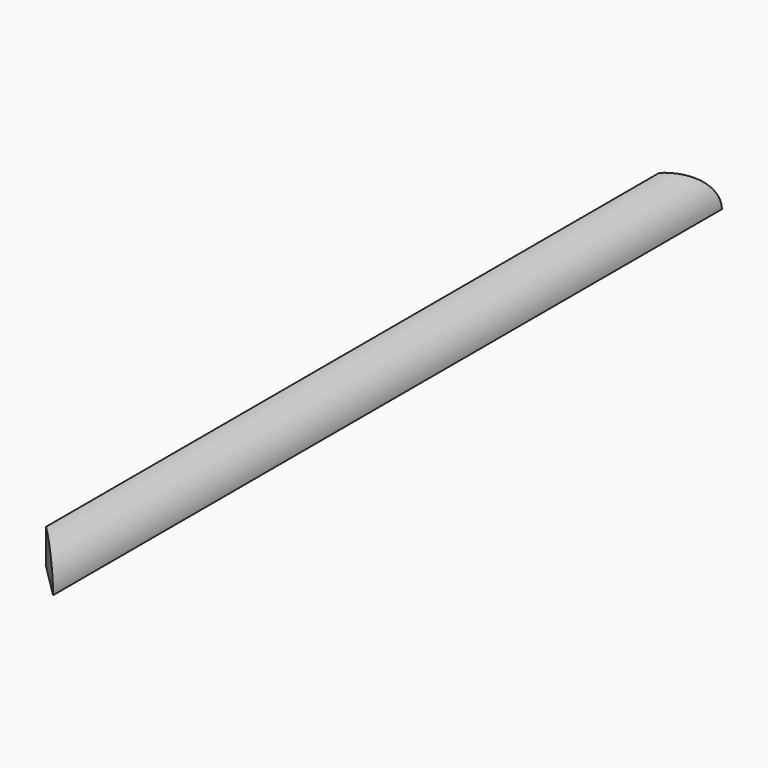
from build123d import *

# Parameters (mm, degrees)
F1_DEPTH = 457.2
F3_DEPTH = 25.4


with BuildPart() as f1:
    # F0 (on Front) → F1 (new body)
    with BuildSketch(Plane.XZ):
        with BuildLine():
            Line((0, 19.05), (0, 0))
            Line((0, 0), (19.05, 0))
            ThreePointArc((19.05, 0), (13.470384, 13.470384), (0, 19.05))
        make_face()
    extrude(amount=F1_DEPTH)

    # F2 (on face) → F3 (cut)
    with BuildSketch(Plane(origin=(0, 0, 0), x_dir=(1, 0, 0), z_dir=(0, 0, -1))):
        Polygon((0, 0), (19.05, 0), (0, 19.05), align=None)
        Polygon((0, 438.15), (19.05, 457.2), (0, 457.2), align=None)
    extrude(amount=-F3_DEPTH, mode=Mode.SUBTRACT)


solid = f1.part
